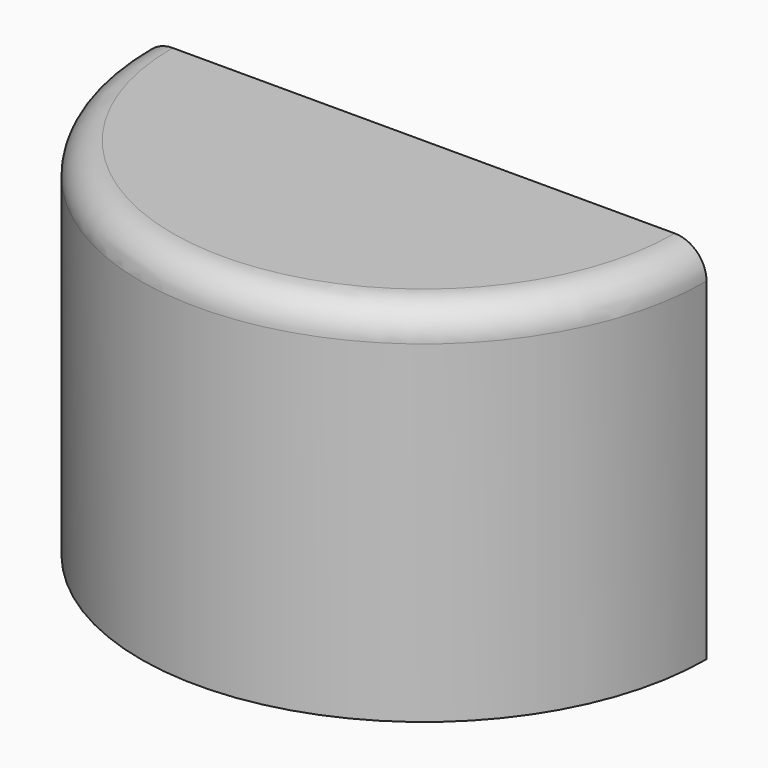
from build123d import *

# Parameters (mm, degrees)
F1_ANGLE = 180
F2_R     = 3


with BuildPart() as f1:
    # F0 (on Front) → F1 (revolve)
    with BuildSketch(Plane.XZ):
        Polygon((-26.7573259016, 0.2080155462), (-15.7573259016, 0.2080155462), (-15.7573259016, 21.2080155462), (-21.2573259016, 21.2080155462), (-21.2573259016, 29.2080155462), (-0.0573259016, 29.2080155462), (-0.0573259016, 34.6219648462), (-26.7573259016, 34.6219648462), (-26.7573259016, 29.1219648462), (-26.7573259016, 23.8824076951), (-26.7573259016, 8.0824076951), align=None)
    revolve(axis=Axis((-0.0573259016, 0, 3.4359856569), (0, 0, 1)), revolution_arc=F1_ANGLE)

    # F2
    f2_edges = [f1.edges().sort_by_distance(p)[0] for p in [
        (-0.057326, -26.7, 34.621965),
    ]]
    fillet(f2_edges, radius=F2_R)


solid = f1.part
